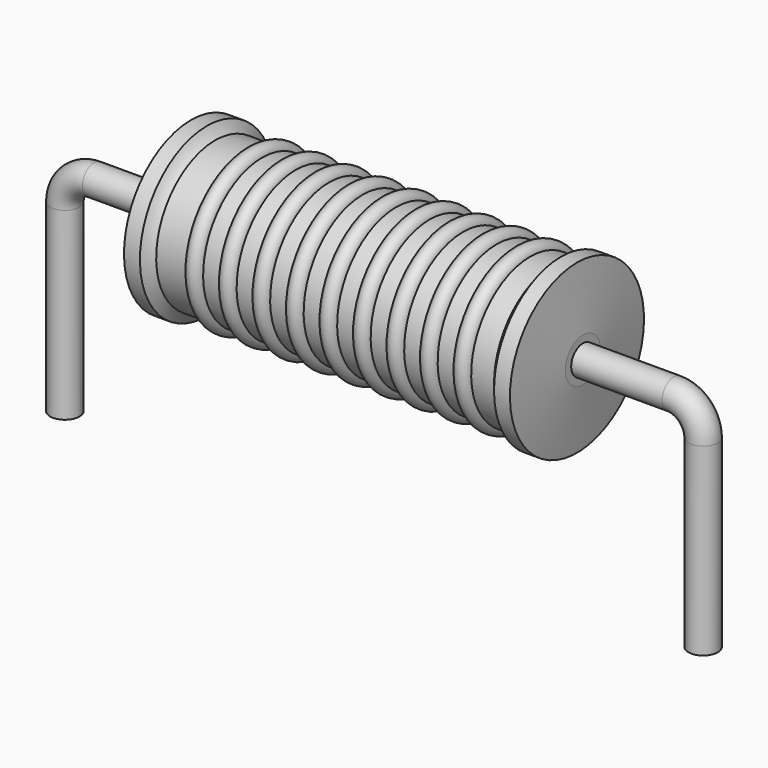
from build123d import *

# Parameters (mm, degrees)
SKETCH_R = 0.35


with BuildPart() as sweep_body:
    # Sweep: sweep along a path in Sketch001
    with BuildLine(Plane.XZ) as sweep_path:
        Line((0, -3), (0, 1.4))
        ThreePointArc((0, 1.4), (0.205022, 1.894971), (0.69999, 2.1))
        Line((0.69999, 2.1), (14.54, 2.1))
        ThreePointArc((14.54, 2.1), (15.034975, 1.894975), (15.24, 1.4))
        Line((15.24, 1.4), (15.24, -3))
    # Sketch → Sweep (sweep)
    with BuildSketch(Plane.XY.offset(-2)):
        Circle(SKETCH_R)
    sweep(path=sweep_path.line)


with BuildPart() as revolution:
    # Sketch002 → Revolution (revolve)
    with BuildSketch(Plane.XZ):
        with BuildLine():
            Line((3.0125, 4.1), (3.3925, 4.1))
            ThreePointArc((3.3925, 4.1), (3.479345, 3.971117), (3.5905, 3.8625))
            Line((3.5905, 3.8625), (11.6575, 3.8625))
            ThreePointArc((11.6575, 3.8625), (11.764738, 3.971459), (11.8475, 4.1))
            Line((11.8475, 4.1), (12.2275, 4.1))
            ThreePointArc((12.37, 2.625), (12.299959, 3.362617), (12.2275, 4.1))
            Line((12.37, 2.1), (12.37, 2.625))
            Line((2.87, 2.1), (12.37, 2.1))
            Line((2.87, 2.1), (2.87, 2.625))
            ThreePointArc((3.0125, 4.1), (2.940041, 3.362617), (2.87, 2.625))
        make_face()
    revolve(axis=Axis((2.87, 0, 2.1), (1, 0, 0)))


with BuildPart() as obj1:
    # Sketch003 → Revolution001 (revolve)
    with BuildSketch(Plane.XZ):
        with BuildLine():
            ThreePointArc((4.715, 3.8245), (4.515, 4.0245), (4.315, 3.8245))
            Line((3.915, 3.8245), (4.315, 3.8245))
            Line((3.915, 3.8245), (3.915, 3.4245))
            Line((3.915, 3.4245), (11.515, 3.4245))
            Line((11.515, 3.4245), (11.515, 3.8245))
            Line((11.115, 3.8245), (11.515, 3.8245))
            ThreePointArc((11.115, 3.8245), (10.915, 4.0245), (10.715, 3.8245))
            Line((10.315, 3.8245), (10.715, 3.8245))
            ThreePointArc((10.315, 3.8245), (10.115, 4.0245), (9.915, 3.8245))
            Line((9.515, 3.8245), (9.915, 3.8245))
            ThreePointArc((9.515, 3.8245), (9.315, 4.0245), (9.115, 3.8245))
            Line((8.715, 3.8245), (9.115, 3.8245))
            ThreePointArc((8.715, 3.8245), (8.515, 4.0245), (8.315, 3.8245))
            Line((7.915, 3.8245), (8.315, 3.8245))
            ThreePointArc((7.915, 3.8245), (7.715, 4.0245), (7.515, 3.8245))
            Line((7.115, 3.8245), (7.515, 3.8245))
            ThreePointArc((7.115, 3.8245), (6.915, 4.0245), (6.715, 3.8245))
            Line((6.315, 3.8245), (6.715, 3.8245))
            ThreePointArc((6.315, 3.8245), (6.115, 4.0245), (5.915, 3.8245))
            Line((5.515, 3.8245), (5.915, 3.8245))
            ThreePointArc((5.515, 3.8245), (5.315, 4.0245), (5.115, 3.8245))
            Line((4.715, 3.8245), (5.115, 3.8245))
        make_face()
    revolve(axis=Axis((3.1075, 0, 2.1), (1, 0, 0)))

    # obj1: union Sweep body, Revolution
    add(sweep_body.part)
    add(revolution.part)


solid = obj1.part
